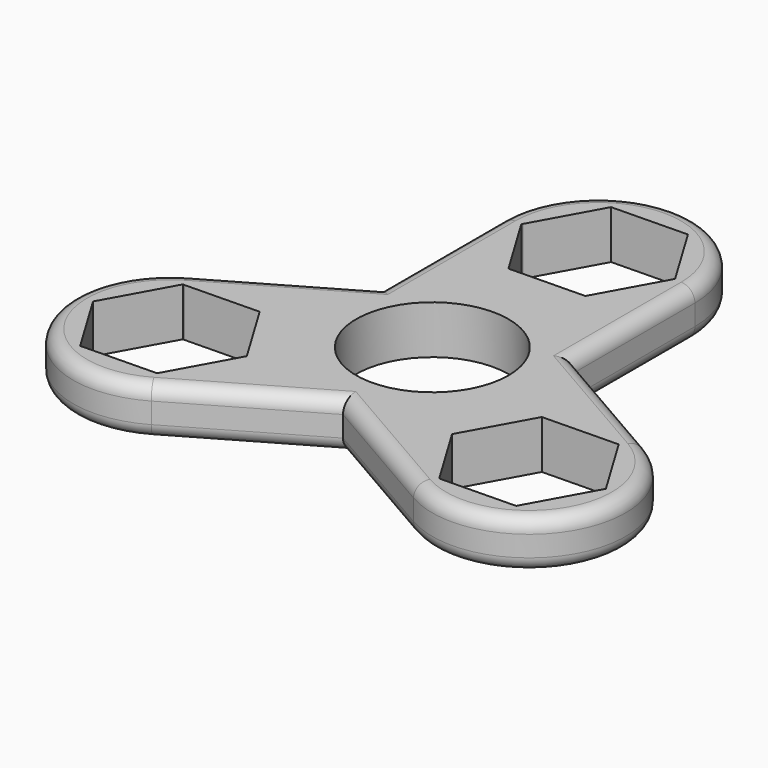
from build123d import *

# Parameters (mm, degrees)
F1_DEPTH = 7
F2_R     = 2
F3_COUNT = 3


with BuildPart() as f1:
    # F0 (on Top) → F1 (new body)
    with BuildSketch(Plane.XY):
        with BuildLine():
            ThreePointArc((28, 0), (14, 14), (0, 0))
            Line((0, 0), (3.1437343742, 0))
            Line((3.1437343742, 0), (8.3414580162, 9.3975654268))
            Line((8.3414580162, 9.3975654268), (19.3092594014, 9.5992238198))
            Line((19.3092594014, 9.5992238198), (24.9678013852, 0.201658393))
            Line((24.9678013852, 0.201658393), (24.8562656258, 0))
            Line((24.8562656258, 0), (28, 0))
        make_face()
        with BuildLine():
            Line((3.1437343742, 0), (0, 0))
            ThreePointArc((0, 0), (14, -14), (28, 0))
            Line((28, 0), (24.8562656258, 0))
            Line((24.8562656258, 0), (19.6585419838, -9.3975654268))
            Line((19.6585419838, -9.3975654268), (8.6907405986, -9.5992238198))
            Line((8.6907405986, -9.5992238198), (3.0321986148, -0.201658393))
            Line((3.0321986148, -0.201658393), (3.1437343742, 0))
        make_face()
        with BuildLine():
            ThreePointArc((28, 0), (14, -14), (0, 0))
            Line((0, 0), (0, -30))
            ThreePointArc((0, -30), (14, -16), (28, -30))
            Line((28, -30), (28, 0))
        make_face()
        with BuildLine():
            Line((2.975, -30), (0, -30))
            ThreePointArc((0, -30), (14, -44), (28, -30))
            Line((28, -30), (25.025, -30))
            ThreePointArc((25.025, -30), (14, -41.025), (2.975, -30))
        make_face()
        with BuildLine():
            ThreePointArc((28, -30), (14, -16), (0, -30))
            Line((0, -30), (2.975, -30))
            ThreePointArc((2.975, -30), (14, -18.975), (25.025, -30))
            Line((25.025, -30), (28, -30))
        make_face()
    extrude(amount=F1_DEPTH)

    # F2
    f2_edges = [f1.edges().sort_by_distance(p)[0] for p in [
        (28, -15, 7),
        (14, 14, 7),
        (0, -15, 0),
        (14, -44, 0),
        (0, -15, 7),
        (14, -44, 7),
        (14, 14, 0),
        (28, -15, 0),
    ]]
    fillet(f2_edges, radius=F2_R)

    # F3: F1 ×3 about axis
    f3_axis = Axis((14, -30, 7), (0, 0, -1))


with BuildPart() as f1_1:
    add(f1.part)
    for i in range(1, F3_COUNT):
        add(f1.part.rotate(f3_axis, i * 360 / F3_COUNT))


solid = f1_1.part
